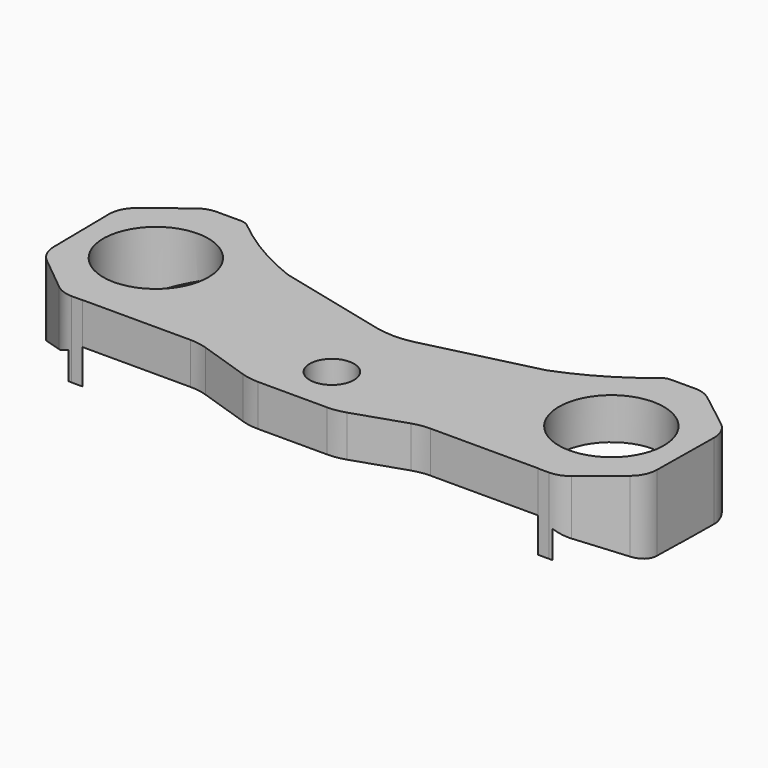
from build123d import *

# Parameters (mm, degrees)
F0_R     = 10.16
F2_DEPTH = 19.05
F3_DEPTH = 34.925
F6_DEPTH = 101.6
F7_DEPTH = 101.6


with BuildPart() as f2:
    # F0 (on Top) → F2 (new body)
    with BuildSketch(Plane.XY):
        with BuildLine():
            ThreePointArc((-104.6607, 34.576826), (-80.5307, 10.446826), (-104.6607, -13.683174))
            Line((-104.6607, -13.683174), (-104.6607, -20.42969))
            Line((-104.6607, -20.42969), (-104.6607, -31.54219))
            Line((-104.6607, -31.54219), (-55.142368, -31.54219))
            ThreePointArc((-55.142368, -31.54219), (-51.077865, -31.8695), (-47.118115, -32.842992))
            Line((-47.118115, -32.842992), (-23.892494, -40.576372))
            ThreePointArc((-23.892494, -40.576372), (-19.932744, -41.549864), (-15.868241, -41.877174))
            Line((-15.868241, -41.877174), (15.868241, -41.877174))
            ThreePointArc((15.868241, -41.877174), (19.932744, -41.549864), (23.892494, -40.576372))
            Line((23.892494, -40.576372), (47.118115, -32.842992))
            ThreePointArc((47.118115, -32.842992), (51.077865, -31.8695), (55.142368, -31.54219))
            Line((55.142368, -31.54219), (104.6607, -31.54219))
            Line((104.6607, -31.54219), (104.6607, -20.42969))
            Line((104.6607, -20.42969), (104.6607, -13.683174))
            ThreePointArc((104.6607, -13.683174), (80.5307, 10.446826), (104.6607, 34.576826))
            Line((104.6607, 34.576826), (104.6607, 40.926826))
            Line((104.6607, 40.926826), (104.6607, 52.039326))
            Line((104.6607, 52.039326), (98.910701, 52.039326))
            ThreePointArc((98.910701, 52.039326), (96.758253, 51.663393), (94.860664, 50.580103))
            ThreePointArc((94.860664, 50.580103), (78.004883, 38.780339), (59.468634, 29.849533))
            Line((59.468634, 29.849533), (9.070406, 17.496127))
            ThreePointArc((9.070406, 17.496127), (0, 16.400691), (-9.070406, 17.496127))
            Line((-9.070406, 17.496127), (-59.468634, 29.849533))
            ThreePointArc((-59.468634, 29.849533), (-78.004883, 38.780339), (-94.860664, 50.580103))
            ThreePointArc((-94.860664, 50.580103), (-96.758253, 51.663393), (-98.910701, 52.039326))
            Line((-98.910701, 52.039326), (-104.6607, 52.039326))
            Line((-104.6607, 52.039326), (-104.6607, 40.926826))
            Line((-104.6607, 40.926826), (-104.6607, 34.576826))
        make_face()
        with Locations((0, -19.271174)):
            Circle(F0_R, mode=Mode.SUBTRACT)
    extrude(amount=-F2_DEPTH)

    # F1 (on Top) → F3 (join)
    with BuildSketch(Plane.XY):
        with BuildLine():
            ThreePointArc((-104.6607, -13.683174), (-128.7907, 10.446826), (-104.6607, 34.576826))
            Line((-104.6607, 34.576826), (-104.6607, 52.039326))
            Line((-104.6607, 52.039326), (-109.834866, 52.039326))
            ThreePointArc((-109.834866, 52.039326), (-113.950863, 51.353842), (-117.622536, 49.371385))
            Line((-117.622536, 49.371385), (-134.142671, 36.547162))
            ThreePointArc((-134.142671, 36.547162), (-137.797157, 32.025737), (-139.053922, 26.349551))
            Line((-139.053922, 26.349551), (-138.634187, -5.846879))
            ThreePointArc((-138.634187, -5.846879), (-137.371916, -11.203376), (-133.962188, -15.522999))
            Line((-133.962188, -15.522999), (-117.690247, -28.794484))
            ThreePointArc((-117.690247, -28.794484), (-113.92365, -30.916909), (-109.663324, -31.652812))
            Line((-109.663324, -31.652812), (-104.6607, -31.652812))
            Line((-104.6607, -31.652812), (-104.6607, -13.683174))
        make_face()
        with BuildLine():
            ThreePointArc((117.622536, 49.371385), (113.950863, 51.353842), (109.834866, 52.039326))
            Line((109.834866, 52.039326), (104.6607, 52.039326))
            Line((104.6607, 52.039326), (104.6607, 34.576826))
            ThreePointArc((104.6607, 34.576826), (128.7907, 10.446826), (104.6607, -13.683174))
            Line((104.6607, -13.683174), (104.6607, -31.652812))
            Line((104.6607, -31.652812), (109.663324, -31.652812))
            ThreePointArc((109.663324, -31.652812), (113.92365, -30.916909), (117.690247, -28.794484))
            Line((117.690247, -28.794484), (133.962188, -15.522999))
            ThreePointArc((133.962188, -15.522999), (137.371916, -11.203376), (138.634187, -5.846879))
            Line((138.634187, -5.846879), (139.053922, 26.349551))
            ThreePointArc((139.053922, 26.349551), (137.797157, 32.025737), (134.142671, 36.547162))
            Line((134.142671, 36.547162), (117.622536, 49.371385))
        make_face()
    extrude(amount=-F3_DEPTH)

    # F5 (on offset) → F6 (cut)
    with BuildSketch(Plane.XZ.offset(31.5468)):
        Polygon((-104.723774, -19.364603), (-138.805479, -34.856286), (-138.805479, -39.619088), (-104.723774, -39.619088), (-104.723774, -38.741853), (-97.308874, -38.741853), (-97.308874, -19.364603), align=None)
        Polygon((104.723774, -19.364603), (97.308874, -19.364603), (97.308874, -38.741853), (104.723774, -38.741853), (104.723774, -39.619088), (138.805479, -39.619088), (138.805479, -34.856286), align=None)
    extrude(amount=-F6_DEPTH, mode=Mode.SUBTRACT)

    # F5 (on offset) → F7 (cut)
    with BuildSketch(Plane.XZ.offset(31.5468)):
        Polygon((-104.723774, -19.364603), (-138.805479, -34.856286), (-138.805479, -39.619088), (-104.723774, -39.619088), (-104.723774, -38.741853), (-97.308874, -38.741853), (-97.308874, -19.364603), align=None)
        Polygon((104.723774, -19.364603), (97.308874, -19.364603), (97.308874, -38.741853), (104.723774, -38.741853), (104.723774, -39.619088), (138.805479, -39.619088), (138.805479, -34.856286), align=None)
    extrude(amount=-F7_DEPTH, mode=Mode.SUBTRACT)


solid = f2.part
